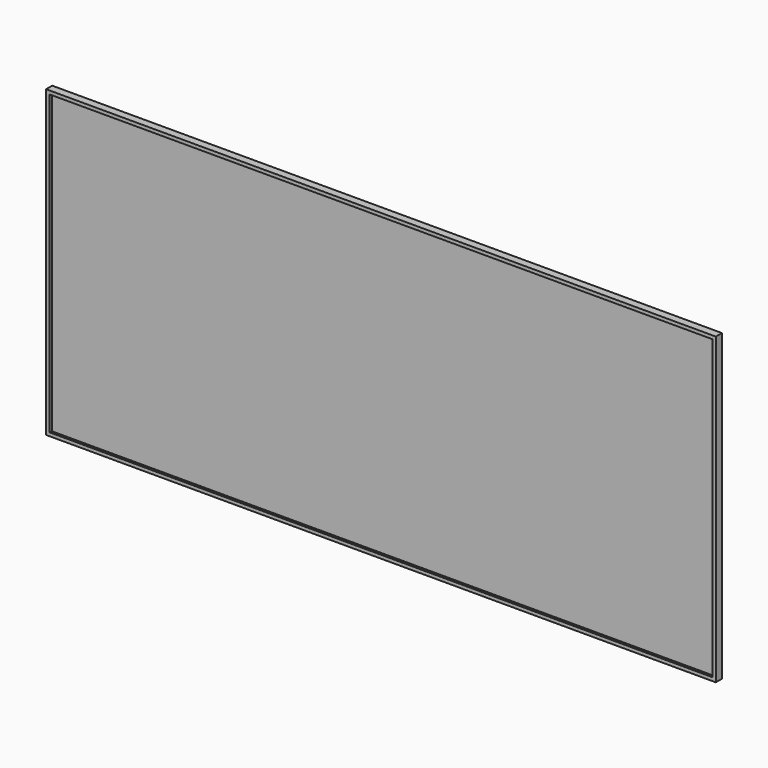
from build123d import *

# Parameters (mm, degrees)
F0_W     = 2530
F0_H     = 1150
F1_DEPTH = 28.9
F2_W     = 2504
F2_H     = 1124
F3_DEPTH = 28.1
F4_W     = 2528.4
F4_H     = 1148.4
F5_DEPTH = 27.3


with BuildPart() as f1:
    # F0 (on Front) → F1 (new body)
    with BuildSketch(Plane.XZ):
        with Locations((1265, 575)):
            Rectangle(F0_W, F0_H)
    extrude(amount=F1_DEPTH)

    # F2 (on face) → F3 (cut)
    with BuildSketch(Plane.XZ.offset(28.9)):
        with Locations((1265, 575)):
            Rectangle(F2_W, F2_H)
    extrude(amount=-F3_DEPTH, mode=Mode.SUBTRACT)

    # F4 (on face) → F5 (cut)
    with BuildSketch(Plane.XZ.offset(0.8)):
        with Locations((1265, 575)):
            Rectangle(F4_W, F4_H)
    extrude(amount=F5_DEPTH, mode=Mode.SUBTRACT)


solid = f1.part
